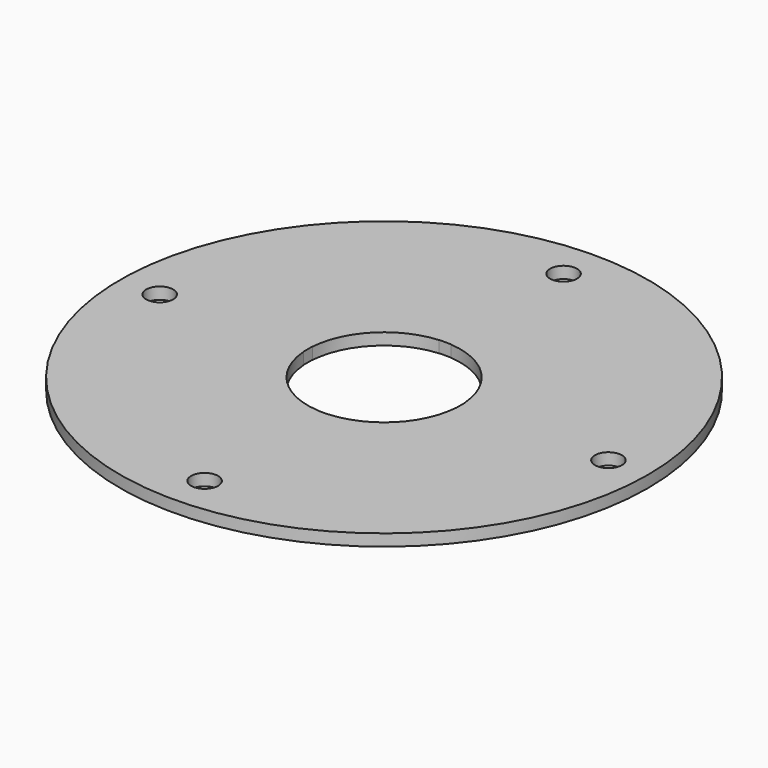
from build123d import *

# Parameters (mm, degrees)
SKETCH003_R           = 2.3
SKETCH003_W           = 2
SKETCH003_H           = 5
EXTRUDE003_DEPTH      = 5
EXTRUDE003_DEPTH_BACK = 3
ARRAY001_COUNT        = 4
SKETCH002_R           = 45
SKETCH002_R_2         = 13
EXTRUDE002_DEPTH      = 1


with BuildPart() as array001:
    # Sketch003 → Extrude003 (new body, two sides)
    with BuildSketch(Plane.XY) as extrude003_sk:
        with Locations((0, 38.25)):
            Circle(SKETCH003_R)
        with Locations((0, 10.5)):
            Rectangle(SKETCH003_W, SKETCH003_H)
    extrude(amount=EXTRUDE003_DEPTH)
    extrude(extrude003_sk.sketch, amount=-EXTRUDE003_DEPTH_BACK)

    # Array001: Array001 ×4 about axis
    array001_axis = Axis((0, 0, 0), (0, 0, 1))


with BuildPart() as array001_1:
    add(array001.part)
    for i in range(1, ARRAY001_COUNT):
        add(array001.part.rotate(array001_axis, i * 360 / ARRAY001_COUNT))


with BuildPart() as cut:
    # Sketch002 → Extrude002 (new body, symmetric)
    with BuildSketch(Plane.XY):
        Circle(SKETCH002_R)
        Circle(SKETCH002_R_2, mode=Mode.SUBTRACT)
    extrude(amount=EXTRUDE002_DEPTH, both=True)

    # Cut: cut Array001
    add(array001_1.part, mode=Mode.SUBTRACT)


solid = cut.part
